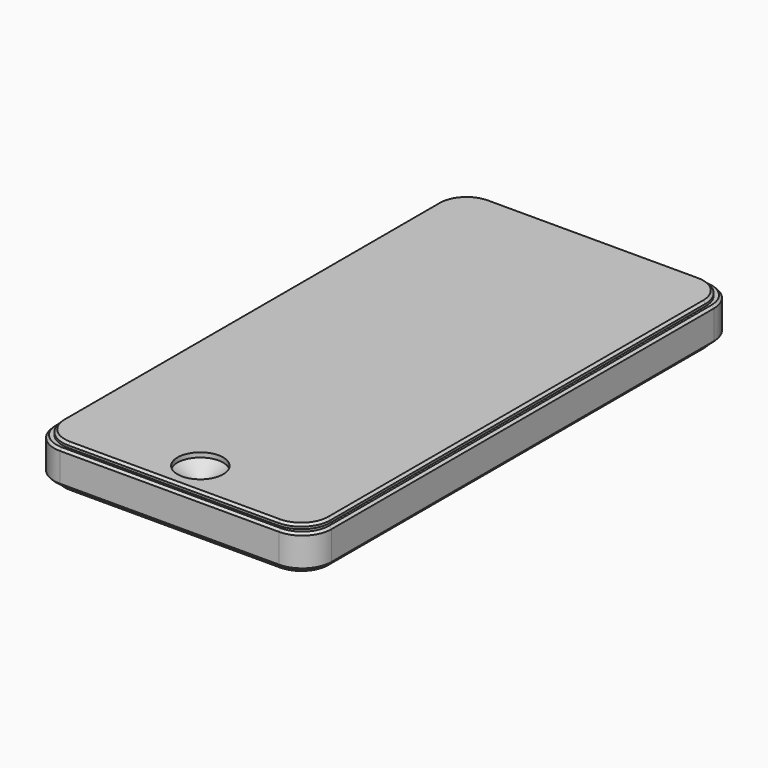
from build123d import *

# Parameters (mm, degrees)
F1_DEPTH = 4.65
F3_DEPTH = 3.65
F4_SIZE  = 0.5
F5_SIZE  = 0.5
F6_SIZE  = 0.5
F7_SIZE  = 0.5
F9_D     = 10
F9_DEPTH = 1
F9_TIP   = 3.0043030951


with BuildPart() as f1:
    # F0 (on Top) → F1 (new body, symmetric)
    with BuildSketch(Plane.XY):
        with BuildLine():
            Line((-22.95, -57.6), (22.95, -57.6))
            ThreePointArc((22.95, -57.6), (27.4401280605, -55.7401280605), (29.3, -51.25))
            Line((29.3, -51.25), (29.3, 51.25))
            ThreePointArc((29.3, 51.25), (27.4401280605, 55.7401280605), (22.95, 57.6))
            Line((22.95, 57.6), (-22.95, 57.6))
            ThreePointArc((-22.95, 57.6), (-27.4401280605, 55.7401280605), (-29.3, 51.25))
            Line((-29.3, 51.25), (-29.3, -51.25))
            ThreePointArc((-29.3, -51.25), (-27.4401280605, -55.7401280605), (-22.95, -57.6))
        make_face()
    extrude(amount=F1_DEPTH, both=True)

    # F2 (on Top) → F3 (join, symmetric)
    with BuildSketch(Plane.XY):
        with BuildLine():
            Line((-23.95, -58.6), (23.95, -58.6))
            ThreePointArc((23.95, -58.6), (28.4401280605, -56.7401280605), (30.3, -52.25))
            Line((30.3, -52.25), (30.3, 52.25))
            ThreePointArc((30.3, 52.25), (28.4401280605, 56.7401280605), (23.95, 58.6))
            Line((23.95, 58.6), (-23.95, 58.6))
            ThreePointArc((-23.95, 58.6), (-28.4401280605, 56.7401280605), (-30.3, 52.25))
            Line((-30.3, 52.25), (-30.3, -52.25))
            ThreePointArc((-30.3, -52.25), (-28.4401280605, -56.7401280605), (-23.95, -58.6))
        make_face()
    extrude(amount=F3_DEPTH, both=True)

    # F4
    f4_edges = [f1.edges().sort_by_distance(p)[0] for p in [
        (-30.3, 0, 3.65),
    ]]
    chamfer(f4_edges, length=F4_SIZE)

    # F5
    f5_edges = [f1.edges().sort_by_distance(p)[0] for p in [
        (-30.3, 0, -3.65),
    ]]
    chamfer(f5_edges, length=F5_SIZE)

    # F6
    f6_edges = [f1.edges().sort_by_distance(p)[0] for p in [
        (-29.3, 0, 4.65),
    ]]
    chamfer(f6_edges, length=F6_SIZE)

    # F7
    f7_edges = [f1.edges().sort_by_distance(p)[0] for p in [
        (29.3, 0, -4.65),
    ]]
    chamfer(f7_edges, length=F7_SIZE)

    # F9
    with Locations(Plane.XY.offset(4.65)):
        with Locations((0, -50.1860789955)):
            Hole(F9_D / 2, depth=F9_DEPTH)
            with Locations((0, 0, -(F9_DEPTH + F9_TIP / 2))):  # 118° drill point
                Cone(0, F9_D / 2, F9_TIP, mode=Mode.SUBTRACT)


solid = f1.part
